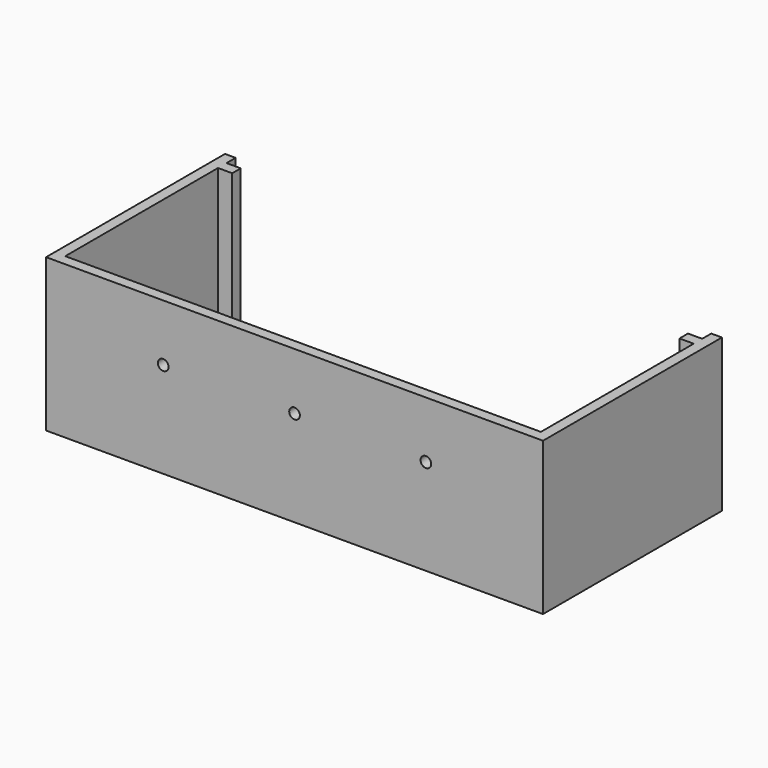
from build123d import *

# Parameters (mm, degrees)
F0_R      = 8
F1_DEPTH  = 3
F2_W      = 3
F2_H      = 3
F2_W_2    = 134
F3_DEPTH  = 40
F4_W      = 3
F4_H      = 40
F5_DEPTH  = 134
F6_W      = 126
F6_H      = 3
F7_DEPTH  = 40
F8_R      = 1.5
F9_DEPTH  = 3
F10_R     = 8
F12_DEPTH = 40


with BuildPart() as f1:
    # F0 (on Top) → F1 (new body)
    with BuildSketch(Plane.XY):
        Polygon((-60, 33.034884), (-80, 33.034884), (-80, 18.034884), (-80, 0.034884), (-80, -2.965116), (-80, -17.965116), (-80, -29.965116), (60, -29.965116), (60, -24.965116), (60, -14.965116), (60, -9.965116), (60, -4.965116), (60, 0.034884), (60, 18.034884), (60, 33.034884), (40, 33.034884), (20, 33.034884), (0, 33.034884), (-20, 33.034884), (-40, 33.034884), align=None)
        with Locations((25, -0.468963)):
            Circle(F0_R, mode=Mode.SUBTRACT)
        with Locations((-45, 1.034884)):
            Circle(F0_R, mode=Mode.SUBTRACT)
    extrude(amount=F1_DEPTH)

    # F2 (on face) → F3 (join)
    with BuildSketch(Plane.XY.offset(3)):
        with Locations((-78.5, -28.465116)):
            Rectangle(F2_W, F2_H)
        with Locations((-10, -28.465116)):
            Rectangle(F2_W_2, F2_H)
        Polygon((-80, 30.034884), (-80, -26.965116), (-77, -26.965116), (-77, 33.034884), (-80, 33.034884), align=None)
        with Locations((58.5, -28.465116)):
            Rectangle(F2_W, F2_H)
        Polygon((57, 33.034884), (57, -26.965116), (60, -26.965116), (60, 30.034884), (60, 33.034884), align=None)
    extrude(amount=F3_DEPTH)

    # F4 (on face) → F5 (join)
    with BuildSketch(Plane.YZ.offset(-77)):
        with Locations((28.334884, 23)):
            Rectangle(F4_W, F4_H)
    extrude(amount=F5_DEPTH)

    # F6 (on face) → F7 (cut)
    with BuildSketch(Plane.XY.offset(43)):
        with Locations((-10, 28.334884)):
            Rectangle(F6_W, F6_H)
    extrude(amount=-F7_DEPTH, mode=Mode.SUBTRACT)

    # F8 (on face) → F9 (cut)
    with BuildSketch(Plane(origin=(0, -26.965116, 0), x_dir=(-1, 0, 0), z_dir=(0, 1, 0))):
        with Locations((47, 26.988985)):
            Circle(F8_R)
        with Locations((-27, 26.988985)):
            Circle(F8_R)
        with Locations((10, 26.988985)):
            Circle(F8_R)
    extrude(amount=-F9_DEPTH, mode=Mode.SUBTRACT)

    # F10 (on face) → F12 (cut)
    with BuildSketch(Plane.XY.offset(3)):
        Polygon((57, 29.834884), (57, 33.034884), (-77, 33.034884), (-77, 29.834884), (-73, 29.834884), (-73, 26.834884), (-77, 26.834884), (-77, -26.965116), (57, -26.965116), (57, 26.834884), (53, 26.834884), (53, 29.834884), align=None)
        with Locations((-45, 1.034884)):
            Circle(F10_R, mode=Mode.SUBTRACT)
        with Locations((25, -0.468963)):
            Circle(F10_R, mode=Mode.SUBTRACT)
    extrude(amount=-F12_DEPTH, mode=Mode.SUBTRACT)


solid = f1.part
